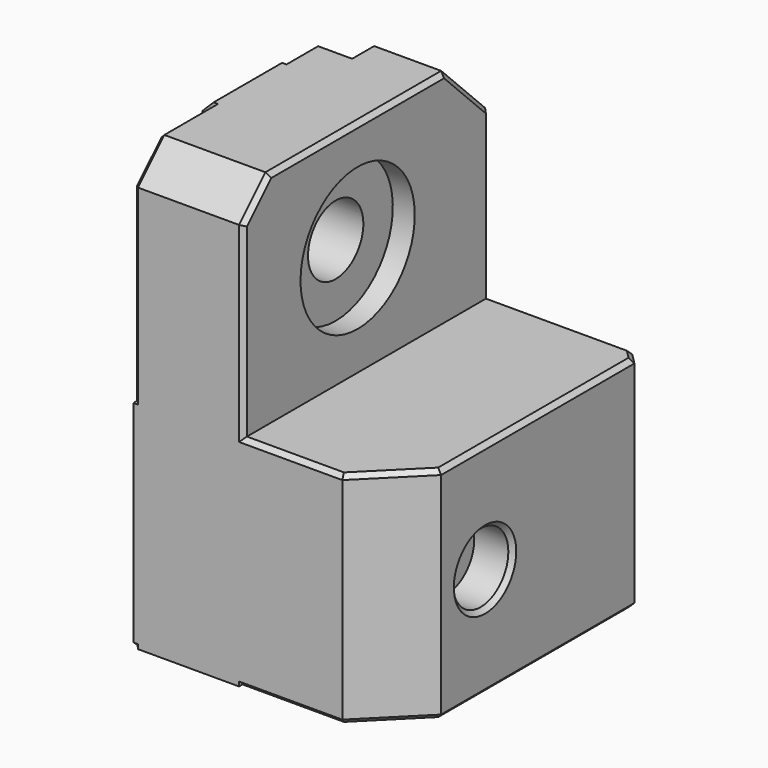
from build123d import *

# Parameters (mm, degrees)
CYLINDER016030_R            = 3.15
CYLINDER016030_DEPTH        = 10
CYLINDER_R                  = 4.1
CYLINDER_DEPTH              = 36
CYLINDER003_R               = 0.85
CYLINDER003_DEPTH           = 10
CYLINDER004_R               = 2.5
CYLINDER004_DEPTH           = 3
CYLINDER002_R               = 3.15
CYLINDER002_DEPTH           = 33
CYLINDER001_R               = 6.5
CYLINDER001_DEPTH           = 33
BOX013_W                    = 3.5
BOX013_H                    = 10
BOX013_DEPTH                = 43
BOX001_W                    = 10
BOX001_H                    = 28
BOX001_DEPTH                = 40
CHAMFER_SIZE                = 3
CHAMFER016009_SIZE          = 5
CHAMFER016013_SIZE          = 0.4
BOX003_W                    = 6
BOX003_H                    = 7.8
BOX003_DEPTH                = 20
BOX002_W                    = 2
BOX002_H                    = 7.8
BOX002_DEPTH                = 40
CHAMFER005_SIZE             = 1
BOX014_W                    = 3.5
BOX014_H                    = 10
BOX014_DEPTH                = 43
BOX_W                       = 24
BOX_H                       = 28
BOX_DEPTH                   = 20
CHAMFER016010_SIZE          = 5
CHAMFER016014_SIZE          = 1
CHAMFER016015_SIZE          = 0.4
CHAMFER016016_SIZE          = 0.4
CHAMFER016016008004017_SIZE = 0.4


with BuildPart() as cylinder044:
    # Cylinder016030 → Cylinder016030 (new body)
    with BuildSketch(Plane(origin=(20.5, 12, 10), x_dir=(0, 0, -1), z_dir=(1, 0, 0))):
        Circle(CYLINDER016030_R)
    extrude(amount=CYLINDER016030_DEPTH)


with BuildPart() as cylinder:
    # Cylinder → Cylinder (new body)
    with BuildSketch(Plane(origin=(14, 4.5, 10), x_dir=(1, 0, 0), z_dir=(0, 1, 0))):
        Circle(CYLINDER_R)
    extrude(amount=CYLINDER_DEPTH)


with BuildPart() as cylinder003:
    # Cylinder003 → Cylinder003 (new body)
    with BuildSketch(Plane(origin=(10, 20, 0), x_dir=(1, 0, 0), z_dir=(0, 0, 1))):
        Circle(CYLINDER003_R)
    extrude(amount=CYLINDER003_DEPTH)


with BuildPart() as fusion003:
    # Cylinder004 → Cylinder004 (new body)
    with BuildSketch(Plane(origin=(10, 20, 0), x_dir=(1, 0, 0), z_dir=(0, 0, 1))):
        Circle(CYLINDER004_R)
    extrude(amount=CYLINDER004_DEPTH)

    # Fusion003: union Cylinder003
    add(cylinder003.part)


with BuildPart() as fusion003_1:
    # Fusion003 placement: moved
    add(fusion003.part.moved(Location((4, 0, 0))))


with BuildPart() as cylinder002:
    # Cylinder002 → Cylinder002 (new body)
    with BuildSketch(Plane(origin=(-10, 15, 30), x_dir=(0, 0, -1), z_dir=(1, 0, 0))):
        Circle(CYLINDER002_R)
    extrude(amount=CYLINDER002_DEPTH)


with BuildPart() as fusion005:
    # Cylinder001 → Cylinder001 (new body)
    with BuildSketch(Plane(origin=(8, 15, 30), x_dir=(0, 0, -1), z_dir=(1, 0, 0))):
        Circle(CYLINDER001_R)
    extrude(amount=CYLINDER001_DEPTH)

    # Fusion005: union Cylinder002
    add(cylinder002.part)


with BuildPart() as cube013:
    # Box013 → Box013 (new body)
    with BuildSketch(Plane(origin=(0, 22.5, 0), x_dir=(1, 0, 0), z_dir=(0, 0, 1))):
        with Locations((1.75, 5)):
            Rectangle(BOX013_W, BOX013_H)
    extrude(amount=BOX013_DEPTH)


with BuildPart() as chamfer016013:
    # Box001 → Box001 (new body)
    with BuildSketch(Plane(origin=(0, 2, 0), x_dir=(1, 0, 0), z_dir=(0, 0, 1))):
        with Locations((5, 14)):
            Rectangle(BOX001_W, BOX001_H)
    extrude(amount=BOX001_DEPTH)

    # Chamfer
    chamfer_edges = [chamfer016013.edges().sort_by_distance(p)[0] for p in [
        (5, 2, 40),
    ]]
    chamfer(chamfer_edges, length=CHAMFER_SIZE)

    # Chamfer016009
    chamfer016009_edges = [chamfer016013.edges().sort_by_distance(p)[0] for p in [
        (5, 30, 40),
    ]]
    chamfer(chamfer016009_edges, length=CHAMFER016009_SIZE)

    # Cut010011002: cut Cube013
    add(cube013.part, mode=Mode.SUBTRACT)

    # Chamfer016013
    chamfer016013_edges = [chamfer016013.edges().sort_by_distance(p)[0] for p in [
        (0, 13.75, 40),
        (0, 12.25, 0),
        (0, 2, 18.5),
        (0, 3.5, 38.5),
        (10, 15, 40),
        (1.75, 22.5, 0),
        (3.5, 26.25, 0),
        (6.75, 30, 0),
        (10, 16, 0),
        (10, 2, 18.5),
        (10, 3.5, 38.5),
        (10, 27.5, 37.5),
        (10, 30, 17.5),
    ]]
    chamfer(chamfer016013_edges, length=CHAMFER016013_SIZE)


with BuildPart() as cube003:
    # Box003 → Box003 (new body)
    with BuildSketch(Plane(origin=(-5, 11.1, 0), x_dir=(1, 0, 0), z_dir=(0, 0, 1))):
        with Locations((3, 3.9)):
            Rectangle(BOX003_W, BOX003_H)
    extrude(amount=BOX003_DEPTH)


with BuildPart() as chamfer005:
    # Box002 → Box002 (new body)
    with BuildSketch(Plane(origin=(-1, 11.1, 0), x_dir=(1, 0, 0), z_dir=(0, 0, 1))):
        with Locations((1, 3.9)):
            Rectangle(BOX002_W, BOX002_H)
    extrude(amount=BOX002_DEPTH)

    # Fusion: union Cube003
    add(cube003.part)

    # Chamfer005
    chamfer005_edges = [chamfer005.edges().sort_by_distance(p)[0] for p in [
        (-5, 15, 0),
        (-1, 15, 40),
        (-5, 15, 20),
    ]]
    chamfer(chamfer005_edges, length=CHAMFER005_SIZE)


with BuildPart() as cube014:
    # Box014 → Box014 (new body)
    with BuildSketch(Plane(origin=(0, 22.5, 0), x_dir=(1, 0, 0), z_dir=(0, 0, 1))):
        with Locations((1.75, 5)):
            Rectangle(BOX014_W, BOX014_H)
    extrude(amount=BOX014_DEPTH)


with BuildPart() as rod_mount_front_w_magnet:
    # Box → Box (new body)
    with BuildSketch(Plane(origin=(0, 2, 0), x_dir=(1, 0, 0), z_dir=(0, 0, 1))):
        with Locations((12, 14)):
            Rectangle(BOX_W, BOX_H)
    extrude(amount=BOX_DEPTH)

    # Chamfer016010
    chamfer016010_edges = [rod_mount_front_w_magnet.edges().sort_by_distance(p)[0] for p in [
        (24, 2, 10),
    ]]
    chamfer(chamfer016010_edges, length=CHAMFER016010_SIZE)

    # Chamfer016014
    chamfer016014_edges = [rod_mount_front_w_magnet.edges().sort_by_distance(p)[0] for p in [
        (24, 30, 10),
    ]]
    chamfer(chamfer016014_edges, length=CHAMFER016014_SIZE)

    # Cut: cut Cube014
    add(cube014.part, mode=Mode.SUBTRACT)

    # Chamfer016015
    chamfer016015_edges = [rod_mount_front_w_magnet.edges().sort_by_distance(p)[0] for p in [
        (24, 18, 20),
        (24, 18, 0),
        (21.5, 4.5, 20),
        (9.5, 2, 20),
        (0, 12.25, 20),
        (1.75, 22.5, 20),
        (3.5, 26.25, 20),
        (13.25, 30, 20),
        (23.5, 29.5, 20),
        (23.5, 29.5, 0),
        (21.5, 4.5, 0),
        (9.5, 2, 0),
        (0, 12.25, 0),
        (1.75, 22.5, 0),
        (3.5, 26.25, 0),
        (13.25, 30, 0),
    ]]
    chamfer(chamfer016015_edges, length=CHAMFER016015_SIZE)

    # Fusion016: union Chamfer016013, Chamfer005
    add(chamfer016013.part)
    add(chamfer005.part)

    # Cut010011003: cut Fusion005
    add(fusion005.part, mode=Mode.SUBTRACT)

    # Cut010011004: cut Fusion003
    add(fusion003_1.part, mode=Mode.SUBTRACT)

    # Cut010011005: cut Cylinder
    add(cylinder.part, mode=Mode.SUBTRACT)

    # Chamfer016016
    chamfer016016_edges = [rod_mount_front_w_magnet.edges().sort_by_distance(p)[0] for p in [
        (9.9, 30, 10),
    ]]
    chamfer(chamfer016016_edges, length=CHAMFER016016_SIZE)

    # Cut010011008009003016002: cut Cylinder044
    add(cylinder044.part, mode=Mode.SUBTRACT)

    # Chamfer016016008004017
    chamfer016016008004017_edges = [rod_mount_front_w_magnet.edges().sort_by_distance(p)[0] for p in [
        (24, 12, 13.15),
    ]]
    chamfer(chamfer016016008004017_edges, length=CHAMFER016016008004017_SIZE)


solid = rod_mount_front_w_magnet.part
